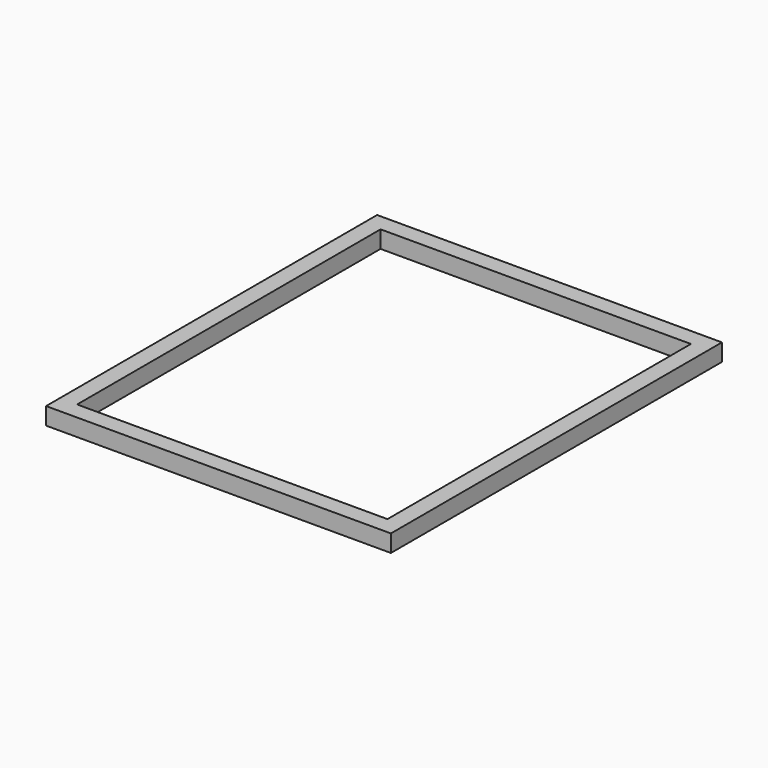
from build123d import *

# Parameters (mm, degrees)
F1_W     = 508
F1_H     = 609.6
F1_W_2   = 457.2
F1_H_2   = 558.8
F2_DEPTH = 25.4


with BuildPart() as f2:
    # F1 (on face) → F2 (new body)
    with BuildSketch(Plane.XY):
        Rectangle(F1_W, F1_H)
        Rectangle(F1_W_2, F1_H_2, mode=Mode.SUBTRACT)
    extrude(amount=F2_DEPTH)


solid = f2.part
